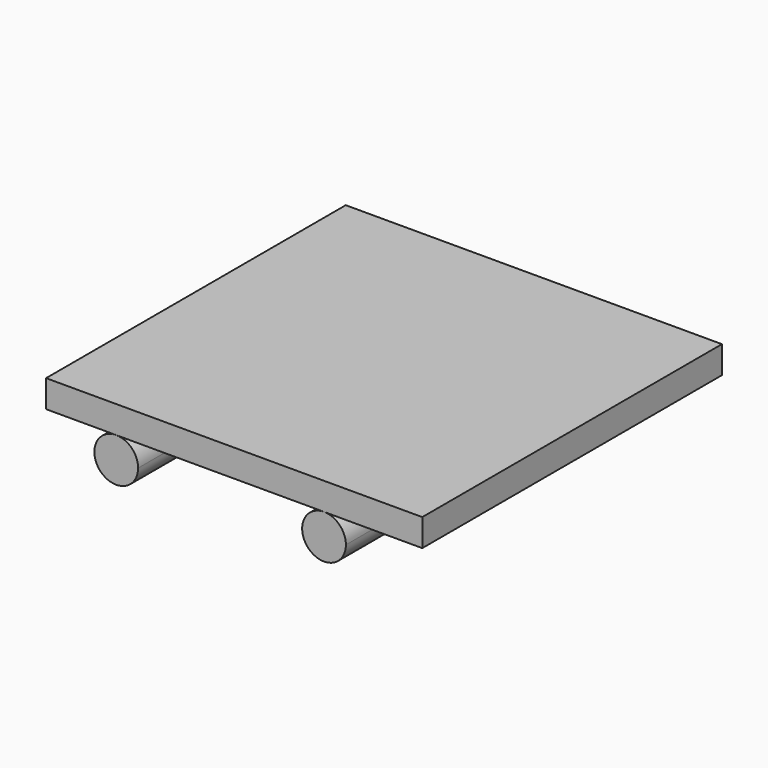
from build123d import *

# Parameters (mm, degrees)
F1_DEPTH = 68.5


with BuildPart() as f1:
    # F0 (on Front) → F1 (new body)
    with BuildSketch(Plane.XZ):
        with BuildLine():
            ThreePointArc((-33.477563, 4), (-36.305991, -2.828427), (-29.477563, 0))
            ThreePointArc((-29.477563, 0), (-30.649136, 2.828427), (-33.477563, 4))
        make_face()
        with BuildLine():
            ThreePointArc((8.522437, 0), (7.350864, 2.828427), (4.522437, 4))
            ThreePointArc((4.522437, 4), (1.694009, -2.828427), (8.522437, 0))
        make_face()
        Polygon((-46.309634, 4), (-33.477563, 4), (4.522437, 4), (22.490366, 4), (22.490366, 9), (-46.309634, 9), align=None)
    extrude(amount=F1_DEPTH)


solid = f1.part
